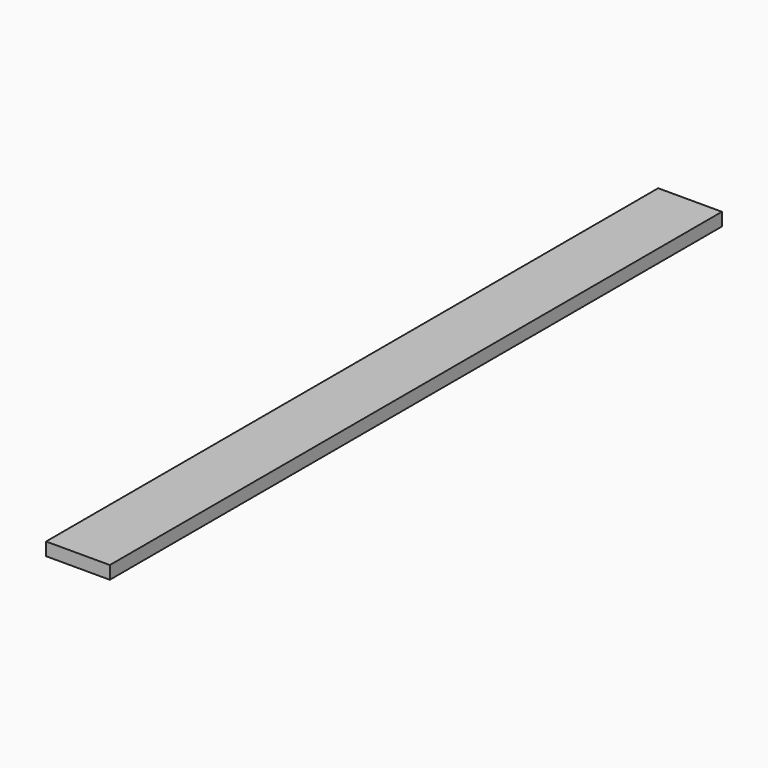
from build123d import *

# Parameters (mm, degrees)
F0_W     = 45.1045036316
F0_H     = 20.3813612461
F1_DEPTH = 1200
F2_DEPTH = 20
F3_DEPTH = 100
F4_DEPTH = 200


with BuildPart() as f1:
    # F0 (on Front) → F1 (new body)
    with BuildSketch(Plane.XZ):
        with Locations((22.5522518158, 10.1906806231)):
            Rectangle(F0_W, F0_H)
    extrude(amount=F1_DEPTH)

    # F2 (add): a face of the model
    f2_faces = [f1.faces().sort_by_distance(p)[0] for p in [
        (22.5522518158, -600, 0),
    ]]
    extrude(f2_faces, amount=-F2_DEPTH)

    # F3 (add): a face of the model
    f3_faces = [f1.faces().sort_by_distance(p)[0] for p in [
        (0, -600, 10.1906806231),
    ]]
    extrude(f3_faces, amount=-F3_DEPTH)

    # F4 (intersect): a face of the model
    f4_faces = [f1.faces().sort_by_distance(p)[0] for p in [
        (50, -600, 0),
    ]]
    extrude(f4_faces, amount=-F4_DEPTH, mode=Mode.INTERSECT)


solid = f1.part
